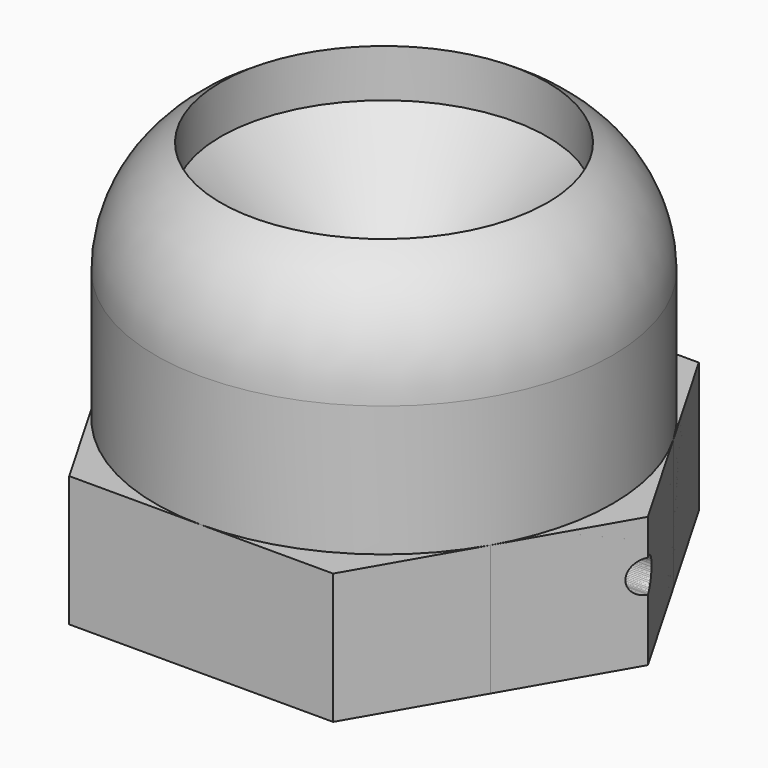
from build123d import *

# Parameters (mm, degrees)
F0_R           = 44.45
F1_DEPTH       = 50.8
F2_R           = 25.4
F3_R           = 31.75
F3_R_2         = 19.05
F4_DEPTH       = 38.1
F5_SIZE        = 25.4
F6_DEPTH       = 25.4
F7_R           = 6.35
F8_DEPTH       = 25.4
F11_DEPTH      = 25.4
F12_DEPTH      = 66.294
F13_DEPTH      = 50.8
F14_DEPTH      = 25.4
F10_W          = 8.89
F10_H          = 10.16
F15_DEPTH      = 50.8
F16_R          = 3.175
F17_DEPTH      = 143.002
F17_DEPTH_BACK = 4.826
F18_DEPTH      = 25.4


with BuildPart() as f1:
    # F0 (on Top) → F1 (new body)
    with BuildSketch(Plane.XY):
        Circle(F0_R)
    extrude(amount=-F1_DEPTH)

    # F2
    f2_edges = [f1.edges().sort_by_distance(p)[0] for p in [
        (-44.45, 0, 0),
    ]]
    fillet(f2_edges, radius=F2_R)

    # F3 (on face) → F4 (cut)
    with BuildSketch(Plane.XY):
        Circle(F3_R)
        Circle(F3_R_2, mode=Mode.SUBTRACT)
        Circle(F3_R_2)
    extrude(amount=-F4_DEPTH, mode=Mode.SUBTRACT)

    # F5
    f5_edges = [f1.edges().sort_by_distance(p)[0] for p in [
        (-31.75, 0, -38.1),
    ]]
    chamfer(f5_edges, length=F5_SIZE)

    # F6 (cut): a face of the model
    f6_faces = [f1.faces().sort_by_distance(p)[0] for p in [
        (0, 0, -38.1),
    ]]
    extrude(f6_faces, amount=-F6_DEPTH, mode=Mode.SUBTRACT)

    # F7 (on face) → F8 (join)
    with BuildSketch(Plane(origin=(0, 0, -50.8), x_dir=(1, 0, 0), z_dir=(0, 0, -1))):
        with BuildLine():
            Line((25.6632194655, 44.45), (-1.821e-07, 44.45))
            ThreePointArc((-1.821e-07, 44.45), (22.2250001111, 38.4948291341), (38.4948294175, 22.2249996201))
            Line((38.4948294175, 22.2249996201), (25.6632194655, 44.45))
        make_face()
        with BuildLine():
            Line((-1.821e-07, 44.45), (-25.6632194655, 44.45))
            Line((-25.6632194655, 44.45), (-38.4948287588, 22.225000761))
            ThreePointArc((-38.4948287588, 22.225000761), (-22.2249996983, 38.4948293724), (-1.821e-07, 44.45))
        make_face()
        with BuildLine():
            ThreePointArc((-38.4948297593, -22.2249990281), (-44.45, 1.0005e-06), (-38.4948287588, 22.225000761))
            Line((-38.4948287588, 22.225000761), (-51.326438931, 0))
            Line((-51.326438931, 0), (-38.4948297593, -22.2249990281))
        make_face()
        with BuildLine():
            ThreePointArc((38.4948294175, 22.2249996201), (22.2250001111, 38.4948291341), (-1.821e-07, 44.45))
            ThreePointArc((-1.821e-07, 44.45), (-22.2249996983, 38.4948293724), (-38.4948287588, 22.225000761))
            ThreePointArc((-38.4948287588, 22.225000761), (-44.45, 1.0005e-06), (-38.4948297593, -22.2249990281))
            ThreePointArc((-38.4948297593, -22.2249990281), (-22.225000486, -38.4948289177), (0, -44.45))
            ThreePointArc((0, -44.45), (22.224999859, -38.4948292796), (38.4948290354, -22.225000282))
            ThreePointArc((38.4948290354, -22.225000282), (42.9354029364, -11.5045067121), (44.45, 0))
            ThreePointArc((44.45, 0), (42.9354030353, 11.504506343), (38.4948294175, 22.2249996201))
        make_face()
        Circle(F7_R, mode=Mode.SUBTRACT)
        with BuildLine():
            ThreePointArc((0, -44.45), (-22.225000486, -38.4948289177), (-38.4948297593, -22.2249990281))
            Line((-38.4948297593, -22.2249990281), (-25.6632194655, -44.45))
            Line((-25.6632194655, -44.45), (0, -44.45))
        make_face()
        with BuildLine():
            ThreePointArc((38.4948290354, -22.225000282), (22.224999859, -38.4948292796), (0, -44.45))
            Line((0, -44.45), (25.6632194655, -44.45))
            Line((25.6632194655, -44.45), (38.4948290354, -22.225000282))
        make_face()
        with BuildLine():
            Line((51.326438931, 0), (38.4948294175, 22.2249996201))
            ThreePointArc((38.4948294175, 22.2249996201), (42.9354030353, 11.504506343), (44.45, 0))
            ThreePointArc((44.45, 0), (42.9354029364, -11.5045067121), (38.4948290354, -22.225000282))
            Line((38.4948290354, -22.225000282), (51.326438931, 0))
        make_face()
    extrude(amount=F8_DEPTH)

    # F9 (on face) → F11 (cut)
    with BuildSketch(Plane(origin=(0, 0, -76.2), x_dir=(1, 0, 0), z_dir=(0, 0, -1))):
        with BuildLine():
            Line((9.398, 6.2825600184), (0.92300575, 6.2825600184))
            ThreePointArc((0.92300575, 6.2825600184), (4.8053921022, 4.1509886465), (6.35, 0))
            ThreePointArc((6.35, 0), (4.4901280605, -4.4901280605), (0, -6.35))
            Line((0, -6.35), (0, -11.4974399816))
            Line((0, -11.4974399816), (9.398, -11.4974399816))
            Line((9.398, -11.4974399816), (9.398, 6.2825600184))
        make_face()
        with BuildLine():
            Line((-0.92300575, 6.2825600184), (-9.398, 6.2825600184))
            Line((-9.398, 6.2825600184), (-9.398, -11.4974399816))
            Line((-9.398, -11.4974399816), (0, -11.4974399816))
            Line((0, -11.4974399816), (0, -6.35))
            ThreePointArc((0, -6.35), (-6.3331175624, -0.4627331212), (-0.92300575, 6.2825600184))
        make_face()
    extrude(amount=-F11_DEPTH, mode=Mode.SUBTRACT)

    # F10 (on face) → F12 (cut)
    with BuildSketch(Plane(origin=(0, 0, -76.2), x_dir=(1, 0, 0), z_dir=(0, 0, -1))):
        with BuildLine():
            Line((-4.6976612952, 15.7848294268), (-4.6976612952, 6.2825600184))
            Line((-4.6976612952, 6.2825600184), (-0.92300575, 6.2825600184))
            ThreePointArc((-0.92300575, 6.2825600184), (0, 6.35), (0.92300575, 6.2825600184))
            Line((0.92300575, 6.2825600184), (4.1923387048, 6.2825600184))
            Line((4.1923387048, 6.2825600184), (4.1923387048, 15.7848294268))
            Line((4.1923387048, 15.7848294268), (-4.6976612952, 15.7848294268))
        make_face()
        Polygon((4.1923387048, 5.6248294268), (-4.6976612952, 5.6248294268), (-4.6976612952, 6.2825600184), (-9.398, 6.2825600184), (-9.398, -11.4974399816), (0, -11.4974399816), (9.398, -11.4974399816), (9.398, 6.2825600184), (4.1923387048, 6.2825600184), align=None)
    extrude(amount=-F12_DEPTH, mode=Mode.SUBTRACT)

    # F13 (cut): faces of the model
    f13_faces = [f1.faces().sort_by_distance(p)[0] for p in [
        (-3.353294615, -5.994297164, -50.8),
        (3.0859513727, -6.0042401288, -50.8),
    ]]
    extrude(f13_faces, amount=F13_DEPTH, mode=Mode.SUBTRACT)


with BuildPart() as f14:
    # F7 (on face) → F14 (new body)
    with BuildSketch(Plane(origin=(0, 0, -50.8), x_dir=(1, 0, 0), z_dir=(0, 0, -1))):
        Polygon((25.6632194655, 44.45), (-25.6632194655, 44.45), (-51.326438931, 0), (-25.6632194655, -44.45), (25.6632194655, -44.45), (51.326438931, 0), align=None)
    extrude(amount=F14_DEPTH)


with BuildPart() as f14b:
    # F10 (on face) → F14, piece 2 (new body)
    with BuildSketch(Plane(origin=(0, 0, -76.2), x_dir=(1, 0, 0), z_dir=(0, 0, -1))):
        with Locations((-0.2526612952, 10.7048294268)):
            Rectangle(F10_W, F10_H)
    extrude(amount=F14_DEPTH)

    # F15 (cut): a face of the model
    f15_faces = [f14b.faces().sort_by_distance(p)[0] for p in [
        (-0.2526612952, -10.7048294268, -101.6),
    ]]
    extrude(f15_faces, amount=-F15_DEPTH, mode=Mode.SUBTRACT)


with BuildPart() as f17_tool:
    # F16 (on Right) → F17 (new body, two sides)
    with BuildSketch(Plane.YZ) as f17_sk:
        with Locations((0, -60.9719515783)):
            Circle(F16_R)
    extrude(amount=F17_DEPTH)
    extrude(f17_sk.sketch, amount=-F17_DEPTH_BACK)


with BuildPart() as f1_1:
    add(f1.part)

    # F17: cut by f17_tool
    add(f17_tool.part, mode=Mode.SUBTRACT)



with BuildPart() as f14_1:
    add(f14.part)

    # F17: cut by f17_tool
    add(f17_tool.part, mode=Mode.SUBTRACT)


with BuildPart() as f1_2:
    add(f1_1.part)
    # F18 (cut): a face of the model
    f18_faces = [f14_1.part.faces().sort_by_distance(p)[0] for p in [
        (-4.826, 0, -60.9719515783),
    ]]
    extrude(f18_faces, amount=F18_DEPTH, mode=Mode.SUBTRACT)


solid = Compound([f14_1.part, f1_2.part])
